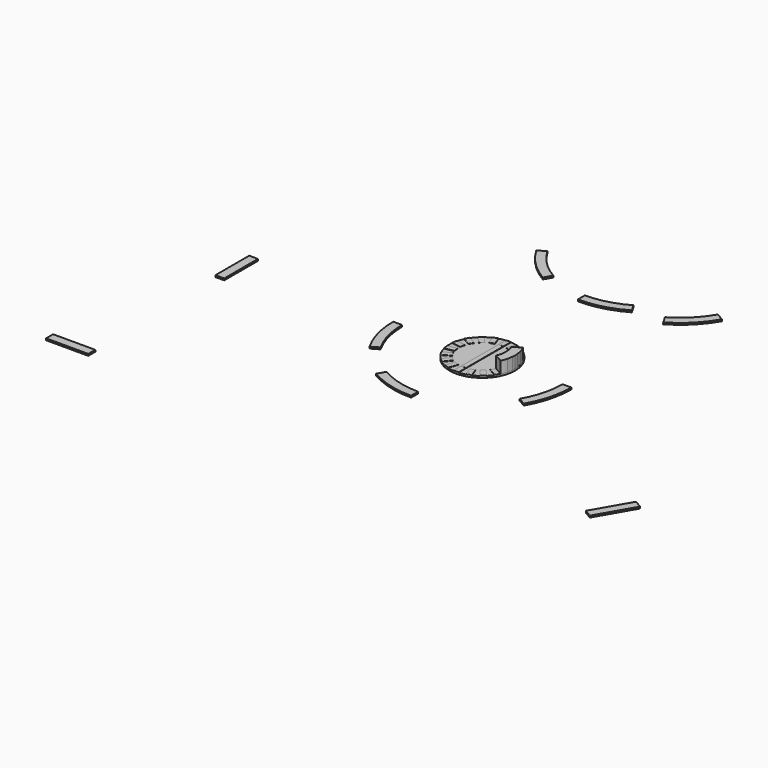
from build123d import *

# Parameters (mm, degrees)
F2_DEPTH = 9.525
F1_W     = 47.625
F1_H     = 228.6
F1_W_2   = 228.6
F1_H_2   = 47.625
F4_DEPTH = 9.525
F5_W     = 26.9875
F5_H     = 252.5622197474
F6_DEPTH = 9.525
F7_DEPTH = 1.5875
F8_DEPTH = 63.5


with BuildPart() as f2:
    # F0 (on Top) → F2 (new body)
    with BuildSketch(Plane.XY):
        with BuildLine():
            Line((-434.975, 0), (-482.6, 0))
            ThreePointArc((-482.6, 0), (-466.1558037671, -124.9060711665), (-417.9438598664, -241.3))
            Line((-417.9438598664, -241.3), (-376.6994000111, -217.4875))
            ThreePointArc((-376.6994000111, -217.4875), (-420.1535862901, -112.5798141435), (-434.975, 0))
        make_face()
    extrude(amount=F2_DEPTH)


with BuildPart() as f2b:
    # F0 (on Top) → F2, piece 2 (new body)
    with BuildSketch(Plane.XY):
        with BuildLine():
            Line((0, -482.6), (0, -434.975))
            ThreePointArc((0, -434.975), (-112.5798141435, -420.1535862901), (-217.4875, -376.6994000111))
            Line((-217.4875, -376.6994000111), (-241.3, -417.9438598664))
            ThreePointArc((-241.3, -417.9438598664), (-124.9060711665, -466.1558037671), (0, -482.6))
        make_face()
    extrude(amount=F2_DEPTH)


with BuildPart() as f2c:
    # F0 (on Top) → F2, piece 3 (new body)
    with BuildSketch(Plane.XY):
        with BuildLine():
            ThreePointArc((434.975, 0), (420.1535862901, -112.5798141435), (376.6994000111, -217.4875))
            Line((376.6994000111, -217.4875), (417.9438598664, -241.3))
            ThreePointArc((417.9438598664, -241.3), (466.1558037671, -124.9060711665), (482.6, 0))
            Line((482.6, 0), (434.975, 0))
        make_face()
    extrude(amount=F2_DEPTH)


with BuildPart() as f2d:
    # F1 (on Top) → F2, piece 4 (new body)
    with BuildSketch(Plane.XY):
        with BuildLine():
            Line((-376.6994000111, 912.0252868652), (-417.9438598664, 888.2127868652))
            ThreePointArc((-417.9438598664, 888.2127868652), (-341.2497326006, 788.2630542646), (-241.3, 711.5689269989))
            Line((-241.3, 711.5689269989), (-217.4875, 752.8133868541))
            ThreePointArc((-217.4875, 752.8133868541), (-307.5737721466, 821.9390147186), (-376.6994000111, 912.0252868652))
        make_face()
    extrude(amount=F2_DEPTH)


with BuildPart() as f2e:
    # F1 (on Top) → F2, piece 5 (new body)
    with BuildSketch(Plane.XY):
        with BuildLine():
            Line((241.3, 711.5689269989), (217.4875, 752.8133868541))
            ThreePointArc((217.4875, 752.8133868541), (112.5798141435, 709.3592005751), (0, 694.5377868652))
            Line((0, 694.5377868652), (0, 646.9127868652))
            ThreePointArc((0, 646.9127868652), (124.9060711665, 663.3569830981), (241.3, 711.5689269989))
        make_face()
    extrude(amount=F2_DEPTH)


with BuildPart() as f2f:
    # F1 (on Top) → F2, piece 6 (new body)
    with BuildSketch(Plane.XY):
        with BuildLine():
            ThreePointArc((413.3113324642, 709.0482711792), (513.2610650648, 785.7423984449), (589.9551923306, 885.6921310456))
            Line((589.9551923306, 885.6921310456), (548.7107324754, 909.5046310456))
            ThreePointArc((548.7107324754, 909.5046310456), (479.5851046108, 819.418358899), (389.4988324642, 750.2927310344))
            Line((389.4988324642, 750.2927310344), (413.3113324642, 709.0482711792))
        make_face()
    extrude(amount=F2_DEPTH)


with BuildPart() as f2g:
    # F1 (on Top) → F2, piece 7 (new body)
    with BuildSketch(Plane.XY):
        with Locations((-1312.6007642746, -22.8880471706)):
            Rectangle(F1_W, F1_H)
    extrude(amount=F2_DEPTH)


with BuildPart() as f2h:
    # F1 (on Top) → F2, piece 8 (new body)
    with BuildSketch(Plane.XY):
        with Locations((-1420.1319343567, -1012.946518898)):
            Rectangle(F1_W_2, F1_H_2)
    extrude(amount=F2_DEPTH)


with BuildPart() as f4:
    # F3 (on Top) → F4 (new body)
    with BuildSketch(Plane.XY):
        Polygon((1350.4990213394, -646.4845766655), (1236.1990213394, -844.4579839706), (1277.4434811947, -868.2704839706), (1391.7434811947, -670.2970766655), align=None)
    extrude(amount=F4_DEPTH)


with BuildPart() as f6:
    # F5 (on Top) → F6 (new body)
    with BuildSketch(Plane.XY):
        with BuildLine():
            ThreePointArc((176.9369947955, -17.4968532238), (177.5841176382, -8.7590617465), (177.8, 0))
            ThreePointArc((177.8, 0), (177.5841176382, 8.7590617465), (176.9369947955, 17.4968532238))
            Line((176.9369947955, 17.4968532238), (172.2506646007, 44.0743524582))
            ThreePointArc((172.2506646007, 44.0743524582), (167.0773479757, 60.8111814833), (160.282112106, 76.9576801809))
            Line((160.282112106, 76.9576801809), (116.1095241687, 51.4546246445))
            ThreePointArc((116.1095241687, 51.4546246445), (124.2475544416, 26.2972472948), (127, 0))
            ThreePointArc((127, 0), (124.2475544416, -26.2972472948), (116.1095241687, -51.4546246445))
            Line((116.1095241687, -51.4546246445), (160.282112106, -76.9576801809))
            ThreePointArc((160.282112106, -76.9576801809), (167.0773479757, -60.8111814833), (172.2506646007, -44.0743524582))
            Line((172.2506646007, -44.0743524582), (176.9369947955, -17.4968532238))
        make_face()
        with BuildLine():
            Line((172.2506646007, 44.0743524582), (176.9369947955, 17.4968532238))
            ThreePointArc((176.9369947955, 17.4968532238), (175.0988184856, 30.8746459892), (172.2506646007, 44.0743524582))
        make_face()
        with BuildLine():
            ThreePointArc((172.2506646007, -44.0743524582), (175.0988184856, -30.8746459892), (176.9369947955, -17.4968532238))
            Line((176.9369947955, -17.4968532238), (172.2506646007, -44.0743524582))
        make_face()
        with BuildLine():
            Line((146.788362106, 100.3295407656), (160.282112106, 76.9576801809))
            ThreePointArc((160.282112106, 76.9576801809), (153.9793167929, 88.9), (146.788362106, 100.3295407656))
        make_face()
        with BuildLine():
            Line((116.1095241687, 51.4546246445), (160.282112106, 76.9576801809))
            Line((160.282112106, 76.9576801809), (146.788362106, 100.3295407656))
            Line((146.788362106, 100.3295407656), (102.6157741687, 74.8264852292))
            ThreePointArc((102.6157741687, 74.8264852292), (109.9852262806, 63.5), (116.1095241687, 51.4546246445))
        make_face()
        with BuildLine():
            ThreePointArc((146.788362106, -100.3295407656), (153.9793167929, -88.9), (160.282112106, -76.9576801809))
            Line((160.282112106, -76.9576801809), (146.788362106, -100.3295407656))
        make_face()
        with BuildLine():
            Line((146.788362106, -100.3295407656), (160.282112106, -76.9576801809))
            Line((160.282112106, -76.9576801809), (116.1095241687, -51.4546246445))
            ThreePointArc((116.1095241687, -51.4546246445), (109.9852262806, -63.5), (102.6157741687, -74.8264852292))
            Line((102.6157741687, -74.8264852292), (146.788362106, -100.3295407656))
        make_face()
        with BuildLine():
            Line((102.6157741687, 74.8264852292), (146.788362106, 100.3295407656))
            ThreePointArc((146.788362106, 100.3295407656), (136.2027019866, 114.2876370023), (124.2948411845, 127.1362751339))
            Line((124.2948411845, 127.1362751339), (91.5087449686, 88.0633271814))
            ThreePointArc((91.5087449686, 88.0633271814), (97.2876442761, 81.6340264302), (102.6157741687, 74.8264852292))
        make_face()
        with BuildLine():
            ThreePointArc((124.2948411845, -127.1362751339), (136.2027019866, -114.2876370023), (146.788362106, -100.3295407656))
            Line((146.788362106, -100.3295407656), (102.6157741687, -74.8264852292))
            ThreePointArc((102.6157741687, -74.8264852292), (97.2876442761, -81.6340264302), (91.5087449686, -88.0633271814))
            Line((91.5087449686, -88.0633271814), (124.2948411845, -127.1362751339))
        make_face()
        with BuildLine():
            Line((103.6212167758, 144.4835057503), (124.2948411845, 127.1362751339))
            ThreePointArc((124.2948411845, 127.1362751339), (114.2876370023, 136.2027019866), (103.6212167758, 144.4835057503))
        make_face()
        with BuildLine():
            Line((91.5087449686, 88.0633271814), (124.2948411845, 127.1362751339))
            Line((124.2948411845, 127.1362751339), (103.6212167758, 144.4835057503))
            Line((103.6212167758, 144.4835057503), (70.83512056, 105.4105577979))
            ThreePointArc((70.83512056, 105.4105577979), (81.6340264302, 97.2876442761), (91.5087449686, 88.0633271814))
        make_face()
        with BuildLine():
            ThreePointArc((103.6212167758, -144.4835057503), (114.2876370023, -136.2027019866), (124.2948411845, -127.1362751339))
            Line((124.2948411845, -127.1362751339), (103.6212167758, -144.4835057503))
        make_face()
        with BuildLine():
            Line((103.6212167758, -144.4835057503), (124.2948411845, -127.1362751339))
            Line((124.2948411845, -127.1362751339), (91.5087449686, -88.0633271814))
            ThreePointArc((91.5087449686, -88.0633271814), (81.6340264302, -97.2876442761), (70.83512056, -105.4105577979))
            Line((70.83512056, -105.4105577979), (103.6212167758, -144.4835057503))
        make_face()
        with BuildLine():
            Line((70.83512056, 105.4105577979), (103.6212167758, 144.4835057503))
            ThreePointArc((103.6212167758, 144.4835057503), (88.9, 153.9793167929), (73.3157780197, 161.9803589741))
            Line((73.3157780197, 161.9803589741), (55.8706606001, 114.050292784))
            ThreePointArc((55.8706606001, 114.050292784), (63.5, 109.9852262806), (70.83512056, 105.4105577979))
        make_face()
        with BuildLine():
            ThreePointArc((73.3157780197, -161.9803589741), (88.9, -153.9793167929), (103.6212167758, -144.4835057503))
            Line((103.6212167758, -144.4835057503), (70.83512056, -105.4105577979))
            ThreePointArc((70.83512056, -105.4105577979), (63.5, -109.9852262806), (55.8706606001, -114.050292784))
            Line((55.8706606001, -114.050292784), (73.3157780197, -161.9803589741))
        make_face()
        with BuildLine():
            Line((47.9558234162, 171.2106275921), (73.3157780197, 161.9803589741))
            ThreePointArc((73.3157780197, 161.9803589741), (60.8111814833, 167.0773479757), (47.9558234162, 171.2106275921))
        make_face()
        with BuildLine():
            Line((55.8706606001, 114.050292784), (73.3157780197, 161.9803589741))
            Line((73.3157780197, 161.9803589741), (47.9558234162, 171.2106275921))
            Line((47.9558234162, 171.2106275921), (30.5107059966, 123.280561402))
            ThreePointArc((30.5107059966, 123.280561402), (43.4365582024, 119.3409628398), (55.8706606001, 114.050292784))
        make_face()
        with BuildLine():
            ThreePointArc((47.9558234162, -171.2106275921), (60.8111814833, -167.0773479757), (73.3157780197, -161.9803589741))
            Line((73.3157780197, -161.9803589741), (47.9558234162, -171.2106275921))
        make_face()
        with BuildLine():
            Line((47.9558234162, -171.2106275921), (73.3157780197, -161.9803589741))
            Line((73.3157780197, -161.9803589741), (55.8706606001, -114.050292784))
            ThreePointArc((55.8706606001, -114.050292784), (43.4365582024, -119.3409628398), (30.5107059966, -123.280561402))
            Line((30.5107059966, -123.280561402), (47.9558234162, -171.2106275921))
        make_face()
        with BuildLine():
            Line((30.5107059966, 123.280561402), (47.9558234162, 171.2106275921))
            ThreePointArc((47.9558234162, 171.2106275921), (30.8746459892, 175.0988184856), (13.49375, 177.2872209465))
            Line((13.49375, 177.2872209465), (13.49375, 126.2811098737))
            ThreePointArc((13.49375, 126.2811098737), (22.0533185637, 125.0705846326), (30.5107059966, 123.280561402))
        make_face()
        with BuildLine():
            ThreePointArc((13.49375, -177.2872209465), (30.8746459892, -175.0988184856), (47.9558234162, -171.2106275921))
            Line((47.9558234162, -171.2106275921), (30.5107059966, -123.280561402))
            ThreePointArc((30.5107059966, -123.280561402), (22.0533185637, -125.0705846326), (13.49375, -126.2811098737))
            Line((13.49375, -126.2811098737), (13.49375, -177.2872209465))
        make_face()
        with BuildLine():
            Line((-13.49375, 177.2872209465), (13.49375, 177.2872209465))
            ThreePointArc((13.49375, 177.2872209465), (0, 177.8), (-13.49375, 177.2872209465))
        make_face()
        with BuildLine():
            Line((13.49375, 126.2811098737), (13.49375, 177.2872209465))
            Line((13.49375, 177.2872209465), (-13.49375, 177.2872209465))
            Line((-13.49375, 177.2872209465), (-13.49375, 126.2811098737))
            ThreePointArc((-13.49375, 126.2811098737), (0, 127), (13.49375, 126.2811098737))
        make_face()
        with BuildLine():
            ThreePointArc((-13.49375, -177.2872209465), (0, -177.8), (13.49375, -177.2872209465))
            Line((13.49375, -177.2872209465), (-13.49375, -177.2872209465))
        make_face()
        with BuildLine():
            Line((-13.49375, -177.2872209465), (13.49375, -177.2872209465))
            Line((13.49375, -177.2872209465), (13.49375, -126.2811098737))
            ThreePointArc((13.49375, -126.2811098737), (0, -127), (-13.49375, -126.2811098737))
            Line((-13.49375, -126.2811098737), (-13.49375, -177.2872209465))
        make_face()
        with BuildLine():
            Line((-13.49375, 126.2811098737), (-13.49375, 177.2872209465))
            ThreePointArc((-13.49375, 177.2872209465), (-30.8746459892, 175.0988184856), (-47.9558234162, 171.2106275921))
            Line((-47.9558234162, 171.2106275921), (-30.5107059966, 123.280561402))
            ThreePointArc((-30.5107059966, 123.280561402), (-22.0533185637, 125.0705846326), (-13.49375, 126.2811098737))
        make_face()
        with BuildLine():
            ThreePointArc((-47.9558234162, -171.2106275921), (-30.8746459892, -175.0988184856), (-13.49375, -177.2872209465))
            Line((-13.49375, -177.2872209465), (-13.49375, -126.2811098737))
            ThreePointArc((-13.49375, -126.2811098737), (-22.0533185637, -125.0705846326), (-30.5107059966, -123.280561402))
            Line((-30.5107059966, -123.280561402), (-47.9558234162, -171.2106275921))
        make_face()
        with BuildLine():
            Line((-73.3157780197, 161.9803589741), (-47.9558234162, 171.2106275921))
            ThreePointArc((-47.9558234162, 171.2106275921), (-60.8111814833, 167.0773479757), (-73.3157780197, 161.9803589741))
        make_face()
        with BuildLine():
            Line((-30.5107059966, 123.280561402), (-47.9558234162, 171.2106275921))
            Line((-47.9558234162, 171.2106275921), (-73.3157780197, 161.9803589741))
            Line((-73.3157780197, 161.9803589741), (-55.8706606001, 114.050292784))
            ThreePointArc((-55.8706606001, 114.050292784), (-43.4365582024, 119.3409628398), (-30.5107059966, 123.280561402))
        make_face()
        with BuildLine():
            ThreePointArc((-73.3157780197, -161.9803589741), (-60.8111814833, -167.0773479757), (-47.9558234162, -171.2106275921))
            Line((-47.9558234162, -171.2106275921), (-73.3157780197, -161.9803589741))
        make_face()
        with BuildLine():
            Line((-73.3157780197, -161.9803589741), (-47.9558234162, -171.2106275921))
            Line((-47.9558234162, -171.2106275921), (-30.5107059966, -123.280561402))
            ThreePointArc((-30.5107059966, -123.280561402), (-43.4365582024, -119.3409628398), (-55.8706606001, -114.050292784))
            Line((-55.8706606001, -114.050292784), (-73.3157780197, -161.9803589741))
        make_face()
        with BuildLine():
            Line((-55.8706606001, 114.050292784), (-73.3157780197, 161.9803589741))
            ThreePointArc((-73.3157780197, 161.9803589741), (-88.9, 153.9793167929), (-103.6212167758, 144.4835057503))
            Line((-103.6212167758, 144.4835057503), (-70.83512056, 105.4105577979))
            ThreePointArc((-70.83512056, 105.4105577979), (-63.5, 109.9852262806), (-55.8706606001, 114.050292784))
        make_face()
        with BuildLine():
            ThreePointArc((-103.6212167758, -144.4835057503), (-88.9, -153.9793167929), (-73.3157780197, -161.9803589741))
            Line((-73.3157780197, -161.9803589741), (-55.8706606001, -114.050292784))
            ThreePointArc((-55.8706606001, -114.050292784), (-63.5, -109.9852262806), (-70.83512056, -105.4105577979))
            Line((-70.83512056, -105.4105577979), (-103.6212167758, -144.4835057503))
        make_face()
        with BuildLine():
            Line((-124.2948411845, 127.1362751339), (-103.6212167758, 144.4835057503))
            ThreePointArc((-103.6212167758, 144.4835057503), (-114.2876370023, 136.2027019866), (-124.2948411845, 127.1362751339))
        make_face()
        with BuildLine():
            Line((-70.83512056, 105.4105577979), (-103.6212167758, 144.4835057503))
            Line((-103.6212167758, 144.4835057503), (-124.2948411845, 127.1362751339))
            Line((-124.2948411845, 127.1362751339), (-91.5087449686, 88.0633271814))
            ThreePointArc((-91.5087449686, 88.0633271814), (-81.6340264302, 97.2876442761), (-70.83512056, 105.4105577979))
        make_face()
        with BuildLine():
            ThreePointArc((-124.2948411845, -127.1362751339), (-114.2876370023, -136.2027019866), (-103.6212167758, -144.4835057503))
            Line((-103.6212167758, -144.4835057503), (-124.2948411845, -127.1362751339))
        make_face()
        with BuildLine():
            Line((-124.2948411845, -127.1362751339), (-103.6212167758, -144.4835057503))
            Line((-103.6212167758, -144.4835057503), (-70.83512056, -105.4105577979))
            ThreePointArc((-70.83512056, -105.4105577979), (-81.6340264302, -97.2876442761), (-91.5087449686, -88.0633271814))
            Line((-91.5087449686, -88.0633271814), (-124.2948411845, -127.1362751339))
        make_face()
        with BuildLine():
            Line((-91.5087449686, 88.0633271814), (-124.2948411845, 127.1362751339))
            ThreePointArc((-124.2948411845, 127.1362751339), (-136.2027019866, 114.2876370023), (-146.788362106, 100.3295407656))
            Line((-146.788362106, 100.3295407656), (-102.6157741687, 74.8264852292))
            ThreePointArc((-102.6157741687, 74.8264852292), (-97.2876442761, 81.6340264302), (-91.5087449686, 88.0633271814))
        make_face()
        with BuildLine():
            ThreePointArc((-146.788362106, -100.3295407656), (-136.2027019866, -114.2876370023), (-124.2948411845, -127.1362751339))
            Line((-124.2948411845, -127.1362751339), (-91.5087449686, -88.0633271814))
            ThreePointArc((-91.5087449686, -88.0633271814), (-97.2876442761, -81.6340264302), (-102.6157741687, -74.8264852292))
            Line((-102.6157741687, -74.8264852292), (-146.788362106, -100.3295407656))
        make_face()
        with BuildLine():
            Line((-160.282112106, 76.9576801809), (-146.788362106, 100.3295407656))
            ThreePointArc((-146.788362106, 100.3295407656), (-153.9793167929, 88.9), (-160.282112106, 76.9576801809))
        make_face()
        with BuildLine():
            Line((-102.6157741687, 74.8264852292), (-146.788362106, 100.3295407656))
            Line((-146.788362106, 100.3295407656), (-160.282112106, 76.9576801809))
            Line((-160.282112106, 76.9576801809), (-116.1095241687, 51.4546246445))
            ThreePointArc((-116.1095241687, 51.4546246445), (-109.9852262806, 63.5), (-102.6157741687, 74.8264852292))
        make_face()
        with BuildLine():
            ThreePointArc((-160.282112106, -76.9576801809), (-153.9793167929, -88.9), (-146.788362106, -100.3295407656))
            Line((-146.788362106, -100.3295407656), (-160.282112106, -76.9576801809))
        make_face()
        with BuildLine():
            Line((-160.282112106, -76.9576801809), (-146.788362106, -100.3295407656))
            Line((-146.788362106, -100.3295407656), (-102.6157741687, -74.8264852292))
            ThreePointArc((-102.6157741687, -74.8264852292), (-109.9852262806, -63.5), (-116.1095241687, -51.4546246445))
            Line((-116.1095241687, -51.4546246445), (-160.282112106, -76.9576801809))
        make_face()
        with BuildLine():
            Line((-116.1095241687, 51.4546246445), (-160.282112106, 76.9576801809))
            ThreePointArc((-160.282112106, 76.9576801809), (-167.0773479757, 60.8111814833), (-172.2506646007, 44.0743524582))
            Line((-172.2506646007, 44.0743524582), (-122.0194509652, 35.2172342205))
            ThreePointArc((-122.0194509652, 35.2172342205), (-119.3409628398, 43.4365582024), (-116.1095241687, 51.4546246445))
        make_face()
        with BuildLine():
            ThreePointArc((-172.2506646007, -44.0743524582), (-167.0773479757, -60.8111814833), (-160.282112106, -76.9576801809))
            Line((-160.282112106, -76.9576801809), (-116.1095241687, -51.4546246445))
            ThreePointArc((-116.1095241687, -51.4546246445), (-119.3409628398, -43.4365582024), (-122.0194509652, -35.2172342205))
            Line((-122.0194509652, -35.2172342205), (-172.2506646007, -44.0743524582))
        make_face()
        with BuildLine():
            Line((-176.9369947955, 17.4968532238), (-172.2506646007, 44.0743524582))
            ThreePointArc((-172.2506646007, 44.0743524582), (-175.0988184856, 30.8746459892), (-176.9369947955, 17.4968532238))
        make_face()
        with BuildLine():
            Line((-122.0194509652, 35.2172342205), (-172.2506646007, 44.0743524582))
            Line((-172.2506646007, 44.0743524582), (-176.9369947955, 17.4968532238))
            Line((-176.9369947955, 17.4968532238), (-126.70578116, 8.6397349861))
            ThreePointArc((-126.70578116, 8.6397349861), (-125.0705846326, 22.0533185637), (-122.0194509652, 35.2172342205))
        make_face()
        with BuildLine():
            ThreePointArc((-176.9369947955, -17.4968532238), (-175.0988184856, -30.8746459892), (-172.2506646007, -44.0743524582))
            Line((-172.2506646007, -44.0743524582), (-176.9369947955, -17.4968532238))
        make_face()
        with BuildLine():
            Line((-176.9369947955, -17.4968532238), (-172.2506646007, -44.0743524582))
            Line((-172.2506646007, -44.0743524582), (-122.0194509652, -35.2172342205))
            ThreePointArc((-122.0194509652, -35.2172342205), (-125.0705846326, -22.0533185637), (-126.70578116, -8.6397349861))
            Line((-126.70578116, -8.6397349861), (-176.9369947955, -17.4968532238))
        make_face()
        with BuildLine():
            Line((-126.70578116, 8.6397349861), (-176.9369947955, 17.4968532238))
            ThreePointArc((-176.9369947955, 17.4968532238), (-177.8, 0), (-176.9369947955, -17.4968532238))
            Line((-176.9369947955, -17.4968532238), (-126.70578116, -8.6397349861))
            ThreePointArc((-126.70578116, -8.6397349861), (-127, 0), (-126.70578116, 8.6397349861))
        make_face()
        with BuildLine():
            Line((-13.49375, -126.2811098737), (-13.49375, 126.2811098737))
            ThreePointArc((-13.49375, 126.2811098737), (-22.0533185637, 125.0705846326), (-30.5107059966, 123.280561402))
            ThreePointArc((-30.5107059966, 123.280561402), (-43.4365582024, 119.3409628398), (-55.8706606001, 114.050292784))
            ThreePointArc((-55.8706606001, 114.050292784), (-63.5, 109.9852262806), (-70.83512056, 105.4105577979))
            ThreePointArc((-70.83512056, 105.4105577979), (-81.6340264302, 97.2876442761), (-91.5087449686, 88.0633271814))
            ThreePointArc((-91.5087449686, 88.0633271814), (-97.2876442761, 81.6340264302), (-102.6157741687, 74.8264852292))
            ThreePointArc((-102.6157741687, 74.8264852292), (-109.9852262806, 63.5), (-116.1095241687, 51.4546246445))
            ThreePointArc((-116.1095241687, 51.4546246445), (-119.3409628398, 43.4365582024), (-122.0194509652, 35.2172342205))
            ThreePointArc((-122.0194509652, 35.2172342205), (-125.0705846326, 22.0533185637), (-126.70578116, 8.6397349861))
            ThreePointArc((-126.70578116, 8.6397349861), (-127, 0), (-126.70578116, -8.6397349861))
            ThreePointArc((-126.70578116, -8.6397349861), (-125.0705846326, -22.0533185637), (-122.0194509652, -35.2172342205))
            ThreePointArc((-122.0194509652, -35.2172342205), (-119.3409628398, -43.4365582024), (-116.1095241687, -51.4546246445))
            ThreePointArc((-116.1095241687, -51.4546246445), (-109.9852262806, -63.5), (-102.6157741687, -74.8264852292))
            ThreePointArc((-102.6157741687, -74.8264852292), (-97.2876442761, -81.6340264302), (-91.5087449686, -88.0633271814))
            ThreePointArc((-91.5087449686, -88.0633271814), (-81.6340264302, -97.2876442761), (-70.83512056, -105.4105577979))
            ThreePointArc((-70.83512056, -105.4105577979), (-63.5, -109.9852262806), (-55.8706606001, -114.050292784))
            ThreePointArc((-55.8706606001, -114.050292784), (-43.4365582024, -119.3409628398), (-30.5107059966, -123.280561402))
            ThreePointArc((-30.5107059966, -123.280561402), (-22.0533185637, -125.0705846326), (-13.49375, -126.2811098737))
        make_face()
        with BuildLine():
            ThreePointArc((127, 0), (124.2475544416, 26.2972472948), (116.1095241687, 51.4546246445))
            ThreePointArc((116.1095241687, 51.4546246445), (109.9852262806, 63.5), (102.6157741687, 74.8264852292))
            ThreePointArc((102.6157741687, 74.8264852292), (97.2876442761, 81.6340264302), (91.5087449686, 88.0633271814))
            ThreePointArc((91.5087449686, 88.0633271814), (81.6340264302, 97.2876442761), (70.83512056, 105.4105577979))
            ThreePointArc((70.83512056, 105.4105577979), (63.5, 109.9852262806), (55.8706606001, 114.050292784))
            ThreePointArc((55.8706606001, 114.050292784), (43.4365582024, 119.3409628398), (30.5107059966, 123.280561402))
            ThreePointArc((30.5107059966, 123.280561402), (22.0533185637, 125.0705846326), (13.49375, 126.2811098737))
            Line((13.49375, 126.2811098737), (13.49375, -126.2811098737))
            ThreePointArc((13.49375, -126.2811098737), (22.0533185637, -125.0705846326), (30.5107059966, -123.280561402))
            ThreePointArc((30.5107059966, -123.280561402), (43.4365582024, -119.3409628398), (55.8706606001, -114.050292784))
            ThreePointArc((55.8706606001, -114.050292784), (63.5, -109.9852262806), (70.83512056, -105.4105577979))
            ThreePointArc((70.83512056, -105.4105577979), (81.6340264302, -97.2876442761), (91.5087449686, -88.0633271814))
            ThreePointArc((91.5087449686, -88.0633271814), (97.2876442761, -81.6340264302), (102.6157741687, -74.8264852292))
            ThreePointArc((102.6157741687, -74.8264852292), (109.9852262806, -63.5), (116.1095241687, -51.4546246445))
            ThreePointArc((116.1095241687, -51.4546246445), (124.2475544416, -26.2972472948), (127, 0))
        make_face()
        Rectangle(F5_W, F5_H)
    extrude(amount=-F6_DEPTH)


with BuildPart() as f7:
    # F5 (on Top) → F7 (new body)
    with BuildSketch(Plane.XY):
        with BuildLine():
            Line((13.49375, 126.2811098737), (13.49375, 177.2872209465))
            Line((13.49375, 177.2872209465), (-13.49375, 177.2872209465))
            Line((-13.49375, 177.2872209465), (-13.49375, 126.2811098737))
            ThreePointArc((-13.49375, 126.2811098737), (0, 127), (13.49375, 126.2811098737))
        make_face()
    extrude(amount=F7_DEPTH)


with BuildPart() as f7b:
    # F5 (on Top) → F7, piece 2 (new body)
    with BuildSketch(Plane.XY):
        with BuildLine():
            Line((-13.49375, -177.2872209465), (13.49375, -177.2872209465))
            Line((13.49375, -177.2872209465), (13.49375, -126.2811098737))
            ThreePointArc((13.49375, -126.2811098737), (0, -127), (-13.49375, -126.2811098737))
            Line((-13.49375, -126.2811098737), (-13.49375, -177.2872209465))
        make_face()
    extrude(amount=F7_DEPTH)


with BuildPart() as f7c:
    # F5 (on Top) → F7, piece 3 (new body)
    with BuildSketch(Plane.XY):
        with BuildLine():
            Line((47.9558234162, -171.2106275921), (73.3157780197, -161.9803589741))
            Line((73.3157780197, -161.9803589741), (55.8706606001, -114.050292784))
            ThreePointArc((55.8706606001, -114.050292784), (43.4365582024, -119.3409628398), (30.5107059966, -123.280561402))
            Line((30.5107059966, -123.280561402), (47.9558234162, -171.2106275921))
        make_face()
    extrude(amount=F7_DEPTH)


with BuildPart() as f7d:
    # F5 (on Top) → F7, piece 4 (new body)
    with BuildSketch(Plane.XY):
        with BuildLine():
            Line((103.6212167758, -144.4835057503), (124.2948411845, -127.1362751339))
            Line((124.2948411845, -127.1362751339), (91.5087449686, -88.0633271814))
            ThreePointArc((91.5087449686, -88.0633271814), (81.6340264302, -97.2876442761), (70.83512056, -105.4105577979))
            Line((70.83512056, -105.4105577979), (103.6212167758, -144.4835057503))
        make_face()
    extrude(amount=F7_DEPTH)


with BuildPart() as f7e:
    # F5 (on Top) → F7, piece 5 (new body)
    with BuildSketch(Plane.XY):
        with BuildLine():
            Line((146.788362106, -100.3295407656), (160.282112106, -76.9576801809))
            Line((160.282112106, -76.9576801809), (116.1095241687, -51.4546246445))
            ThreePointArc((116.1095241687, -51.4546246445), (109.9852262806, -63.5), (102.6157741687, -74.8264852292))
            Line((102.6157741687, -74.8264852292), (146.788362106, -100.3295407656))
        make_face()
    extrude(amount=F7_DEPTH)


with BuildPart() as f7f:
    # F5 (on Top) → F7, piece 6 (new body)
    with BuildSketch(Plane.XY):
        with BuildLine():
            Line((116.1095241687, 51.4546246445), (160.282112106, 76.9576801809))
            Line((160.282112106, 76.9576801809), (146.788362106, 100.3295407656))
            Line((146.788362106, 100.3295407656), (102.6157741687, 74.8264852292))
            ThreePointArc((102.6157741687, 74.8264852292), (109.9852262806, 63.5), (116.1095241687, 51.4546246445))
        make_face()
    extrude(amount=F7_DEPTH)


with BuildPart() as f7g:
    # F5 (on Top) → F7, piece 7 (new body)
    with BuildSketch(Plane.XY):
        with BuildLine():
            Line((91.5087449686, 88.0633271814), (124.2948411845, 127.1362751339))
            Line((124.2948411845, 127.1362751339), (103.6212167758, 144.4835057503))
            Line((103.6212167758, 144.4835057503), (70.83512056, 105.4105577979))
            ThreePointArc((70.83512056, 105.4105577979), (81.6340264302, 97.2876442761), (91.5087449686, 88.0633271814))
        make_face()
    extrude(amount=F7_DEPTH)


with BuildPart() as f7h:
    # F5 (on Top) → F7, piece 8 (new body)
    with BuildSketch(Plane.XY):
        with BuildLine():
            Line((55.8706606001, 114.050292784), (73.3157780197, 161.9803589741))
            Line((73.3157780197, 161.9803589741), (47.9558234162, 171.2106275921))
            Line((47.9558234162, 171.2106275921), (30.5107059966, 123.280561402))
            ThreePointArc((30.5107059966, 123.280561402), (43.4365582024, 119.3409628398), (55.8706606001, 114.050292784))
        make_face()
    extrude(amount=F7_DEPTH)


with BuildPart() as f7i:
    # F5 (on Top) → F7, piece 9 (new body)
    with BuildSketch(Plane.XY):
        with BuildLine():
            Line((-30.5107059966, 123.280561402), (-47.9558234162, 171.2106275921))
            Line((-47.9558234162, 171.2106275921), (-73.3157780197, 161.9803589741))
            Line((-73.3157780197, 161.9803589741), (-55.8706606001, 114.050292784))
            ThreePointArc((-55.8706606001, 114.050292784), (-43.4365582024, 119.3409628398), (-30.5107059966, 123.280561402))
        make_face()
    extrude(amount=F7_DEPTH)


with BuildPart() as f7j:
    # F5 (on Top) → F7, piece 10 (new body)
    with BuildSketch(Plane.XY):
        with BuildLine():
            Line((-70.83512056, 105.4105577979), (-103.6212167758, 144.4835057503))
            Line((-103.6212167758, 144.4835057503), (-124.2948411845, 127.1362751339))
            Line((-124.2948411845, 127.1362751339), (-91.5087449686, 88.0633271814))
            ThreePointArc((-91.5087449686, 88.0633271814), (-81.6340264302, 97.2876442761), (-70.83512056, 105.4105577979))
        make_face()
    extrude(amount=F7_DEPTH)


with BuildPart() as f7k:
    # F5 (on Top) → F7, piece 11 (new body)
    with BuildSketch(Plane.XY):
        with BuildLine():
            Line((-102.6157741687, 74.8264852292), (-146.788362106, 100.3295407656))
            Line((-146.788362106, 100.3295407656), (-160.282112106, 76.9576801809))
            Line((-160.282112106, 76.9576801809), (-116.1095241687, 51.4546246445))
            ThreePointArc((-116.1095241687, 51.4546246445), (-109.9852262806, 63.5), (-102.6157741687, 74.8264852292))
        make_face()
    extrude(amount=F7_DEPTH)


with BuildPart() as f7l:
    # F5 (on Top) → F7, piece 12 (new body)
    with BuildSketch(Plane.XY):
        with BuildLine():
            Line((-122.0194509652, 35.2172342205), (-172.2506646007, 44.0743524582))
            Line((-172.2506646007, 44.0743524582), (-176.9369947955, 17.4968532238))
            Line((-176.9369947955, 17.4968532238), (-126.70578116, 8.6397349861))
            ThreePointArc((-126.70578116, 8.6397349861), (-125.0705846326, 22.0533185637), (-122.0194509652, 35.2172342205))
        make_face()
    extrude(amount=F7_DEPTH)


with BuildPart() as f7m:
    # F5 (on Top) → F7, piece 13 (new body)
    with BuildSketch(Plane.XY):
        with BuildLine():
            Line((-176.9369947955, -17.4968532238), (-172.2506646007, -44.0743524582))
            Line((-172.2506646007, -44.0743524582), (-122.0194509652, -35.2172342205))
            ThreePointArc((-122.0194509652, -35.2172342205), (-125.0705846326, -22.0533185637), (-126.70578116, -8.6397349861))
            Line((-126.70578116, -8.6397349861), (-176.9369947955, -17.4968532238))
        make_face()
    extrude(amount=F7_DEPTH)


with BuildPart() as f7n:
    # F5 (on Top) → F7, piece 14 (new body)
    with BuildSketch(Plane.XY):
        with BuildLine():
            Line((-160.282112106, -76.9576801809), (-146.788362106, -100.3295407656))
            Line((-146.788362106, -100.3295407656), (-102.6157741687, -74.8264852292))
            ThreePointArc((-102.6157741687, -74.8264852292), (-109.9852262806, -63.5), (-116.1095241687, -51.4546246445))
            Line((-116.1095241687, -51.4546246445), (-160.282112106, -76.9576801809))
        make_face()
    extrude(amount=F7_DEPTH)


with BuildPart() as f7o:
    # F5 (on Top) → F7, piece 15 (new body)
    with BuildSketch(Plane.XY):
        with BuildLine():
            Line((-124.2948411845, -127.1362751339), (-103.6212167758, -144.4835057503))
            Line((-103.6212167758, -144.4835057503), (-70.83512056, -105.4105577979))
            ThreePointArc((-70.83512056, -105.4105577979), (-81.6340264302, -97.2876442761), (-91.5087449686, -88.0633271814))
            Line((-91.5087449686, -88.0633271814), (-124.2948411845, -127.1362751339))
        make_face()
    extrude(amount=F7_DEPTH)


with BuildPart() as f7p:
    # F5 (on Top) → F7, piece 16 (new body)
    with BuildSketch(Plane.XY):
        with BuildLine():
            Line((-73.3157780197, -161.9803589741), (-47.9558234162, -171.2106275921))
            Line((-47.9558234162, -171.2106275921), (-30.5107059966, -123.280561402))
            ThreePointArc((-30.5107059966, -123.280561402), (-43.4365582024, -119.3409628398), (-55.8706606001, -114.050292784))
            Line((-55.8706606001, -114.050292784), (-73.3157780197, -161.9803589741))
        make_face()
    extrude(amount=F7_DEPTH)


with BuildPart() as f7q:
    # F5 (on Top) → F7, piece 17 (new body)
    with BuildSketch(Plane.XY):
        Rectangle(F5_W, F5_H)
    extrude(amount=F7_DEPTH)


with BuildPart() as f8:
    # F5 (on Top) → F8 (new body)
    with BuildSketch(Plane.XY):
        with BuildLine():
            ThreePointArc((176.9369947955, -17.4968532238), (177.5841176382, -8.7590617465), (177.8, 0))
            ThreePointArc((177.8, 0), (177.5841176382, 8.7590617465), (176.9369947955, 17.4968532238))
            Line((176.9369947955, 17.4968532238), (172.2506646007, 44.0743524582))
            ThreePointArc((172.2506646007, 44.0743524582), (167.0773479757, 60.8111814833), (160.282112106, 76.9576801809))
            Line((160.282112106, 76.9576801809), (116.1095241687, 51.4546246445))
            ThreePointArc((116.1095241687, 51.4546246445), (124.2475544416, 26.2972472948), (127, 0))
            ThreePointArc((127, 0), (124.2475544416, -26.2972472948), (116.1095241687, -51.4546246445))
            Line((116.1095241687, -51.4546246445), (160.282112106, -76.9576801809))
            ThreePointArc((160.282112106, -76.9576801809), (167.0773479757, -60.8111814833), (172.2506646007, -44.0743524582))
            Line((172.2506646007, -44.0743524582), (176.9369947955, -17.4968532238))
        make_face()
    extrude(amount=F8_DEPTH)


solid = Compound([f2.part, f2b.part, f2c.part, f2d.part, f2e.part, f2f.part, f2g.part, f2h.part, f4.part, f6.part, f7.part, f7b.part, f7c.part, f7d.part, f7e.part, f7f.part, f7g.part, f7h.part, f7i.part, f7j.part, f7k.part, f7l.part, f7m.part, f7n.part, f7o.part, f7p.part, f7q.part, f8.part])
